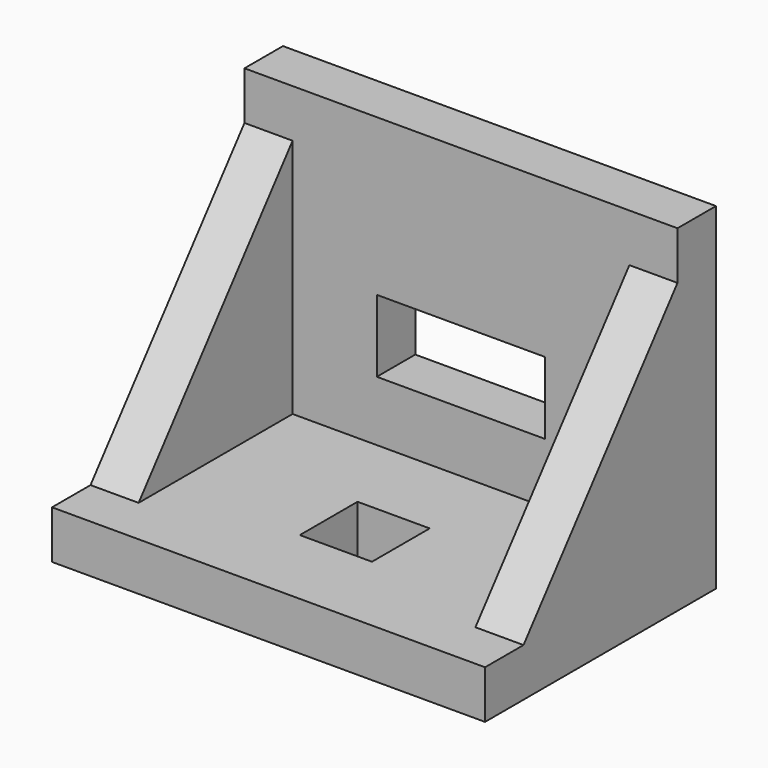
from build123d import *

# Parameters (mm, degrees)
F0_W     = 10
F0_H     = 40
F0_H_2   = 10
F0_W_2   = 35
F1_DEPTH = 10
F2_DEPTH = 60
F4_W     = 10
F4_H     = 10
F6_W     = 17.5
F6_H     = 15
F7_DEPTH = 25


with BuildPart() as f1:
    # F0 (on Top) → F1 (new body)
    with BuildSketch(Plane.XY):
        Polygon((0, -10), (-35, -10), (-35, -50), (-45, -50), (-45, -60), (0, -60), (0, -42.5), (-7.5, -42.5), (-7.5, -27.5), (0, -27.5), align=None)
        with Locations((-40, -30)):
            Rectangle(F0_W, F0_H)
        with Locations((-40, -5)):
            Rectangle(F0_W, F0_H_2)
        with Locations((-17.5, -5)):
            Rectangle(F0_W_2, F0_H_2)
    extrude(amount=-F1_DEPTH)

    # F0 (on Top) → F2 (join)
    with BuildSketch(Plane.XY):
        with Locations((-40, -5)):
            Rectangle(F0_W, F0_H_2)
        with Locations((-17.5, -5)):
            Rectangle(F0_W_2, F0_H_2)
    extrude(amount=F2_DEPTH)

    # F0 (on Top) → F5 section 0
    with BuildSketch(Plane.XY):
        with Locations((-40, -30)):
            Rectangle(F0_W, F0_H)
    # F4 (on offset) → F5 section 1
    with BuildSketch(Plane.XY.offset(50)):
        with Locations((-40, -5)):
            Rectangle(F4_W, F4_H)
    loft()

    # F6 (on face) → F7 (cut)
    with BuildSketch(Plane.XZ.offset(10)):
        with Locations((-8.75, 20)):
            Rectangle(F6_W, F6_H)
    extrude(amount=-F7_DEPTH, mode=Mode.SUBTRACT)

    # F8: F1 across plane


with BuildPart() as f1_1:
    add(f1.part)
    add(f1.part.mirror(Plane.YZ))


solid = f1_1.part
